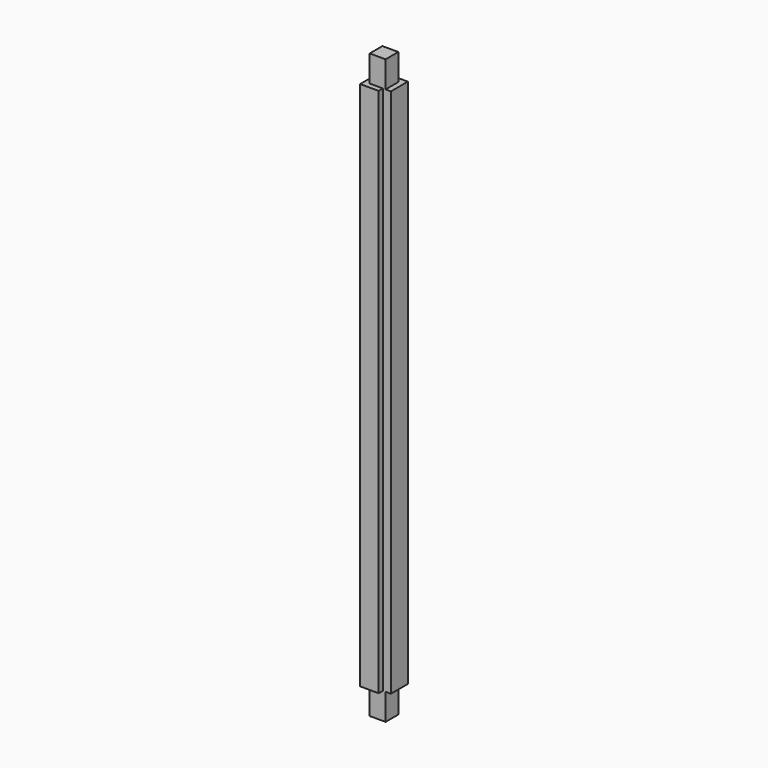
from build123d import *

# Parameters (mm, degrees)
F0_W     = 100
F0_H     = 2200
F1_DEPTH = 100
F2_W     = 30
F2_H     = 2200
F3_DEPTH = 20
F4_W     = 30
F4_H     = 2200
F5_DEPTH = 20
F7_DEPTH = 100
F9_DEPTH = 100


with BuildPart() as f1:
    # F0 (on Front) → F1 (new body)
    with BuildSketch(Plane.XZ):
        with Locations((50, 1100)):
            Rectangle(F0_W, F0_H)
    extrude(amount=F1_DEPTH)

    # F2 (on face) → F3 (cut)
    with BuildSketch(Plane.XZ.offset(100)):
        with Locations((85, 1100)):
            Rectangle(F2_W, F2_H)
    extrude(amount=-F3_DEPTH, mode=Mode.SUBTRACT)

    # F4 (on face) → F5 (cut)
    with BuildSketch(Plane(origin=(0, 0, 0), x_dir=(0, -1, 0), z_dir=(-1, 0, 0))):
        with Locations((15, 1100)):
            Rectangle(F4_W, F4_H)
    extrude(amount=-F5_DEPTH, mode=Mode.SUBTRACT)

    # F6 (on face) → F7 (cut)
    with BuildSketch(Plane.XY.offset(2200)):
        Polygon((20, -20), (80, -20), (80, -80), (100, -80), (100, 0), (20, 0), align=None)
        Polygon((20, -80), (20, -30), (0, -30), (0, -100), (70, -100), (70, -80), align=None)
    extrude(amount=-F7_DEPTH, mode=Mode.SUBTRACT)

    # F8 (on face) → F9 (cut)
    with BuildSketch(Plane(origin=(0, 0, 0), x_dir=(1, 0, 0), z_dir=(0, 0, -1))):
        Polygon((0, 30), (20, 30), (20, 80), (70, 80), (70, 100), (0, 100), align=None)
        Polygon((80, 20), (20, 20), (20, 0), (100, 0), (100, 80), (80, 80), align=None)
    extrude(amount=-F9_DEPTH, mode=Mode.SUBTRACT)


solid = f1.part
